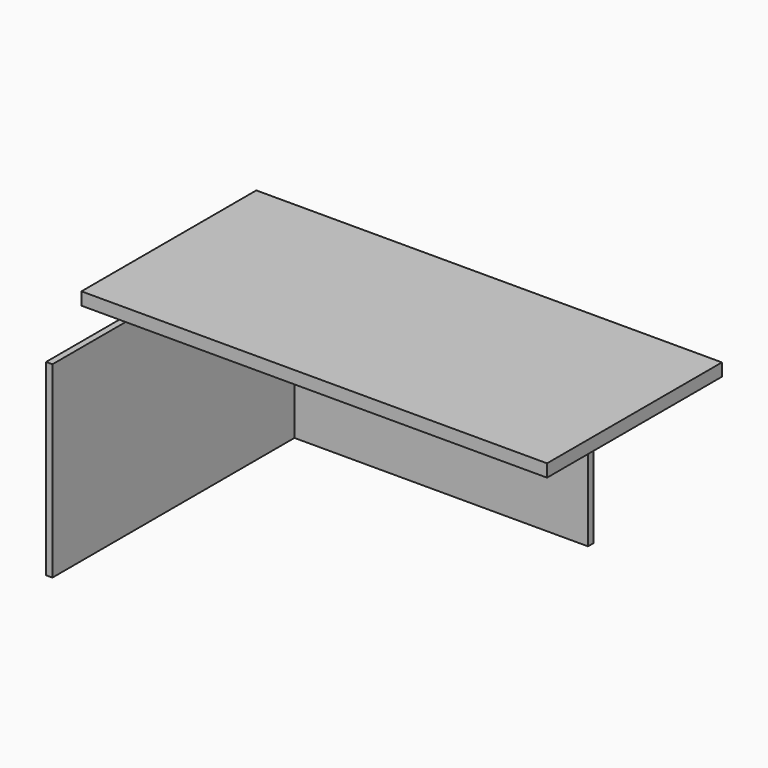
from build123d import *

# Parameters (mm, degrees)
F0_W     = 3.1359493732
F0_H     = 149.408057332
F1_DEPTH = 92.761926353
F2_W     = 229.9652826041
F2_H     = 107.9619452357
F3_DEPTH = 6.2423087656


with BuildPart() as f1:
    # F0 (on Top) → F1 (new body)
    with BuildSketch(Plane.XY):
        Polygon((-73.6213624477, 75.7866799831), (-73.6213624477, 72.3221451044), (-70.4854130745, 72.3221451044), (74.4874924421, 72.3221451044), (74.4874924421, 75.7866799831), align=None)
        with Locations((-72.0533877611, -2.3818835616)):
            Rectangle(F0_W, F0_H)
    extrude(amount=-F1_DEPTH)

    # F2 (on Top) → F3 (join)
    with BuildSketch(Plane.XY):
        with Locations((22.6604035124, 22.0952816308)):
            Rectangle(F2_W, F2_H)
    extrude(amount=F3_DEPTH)


solid = f1.part
